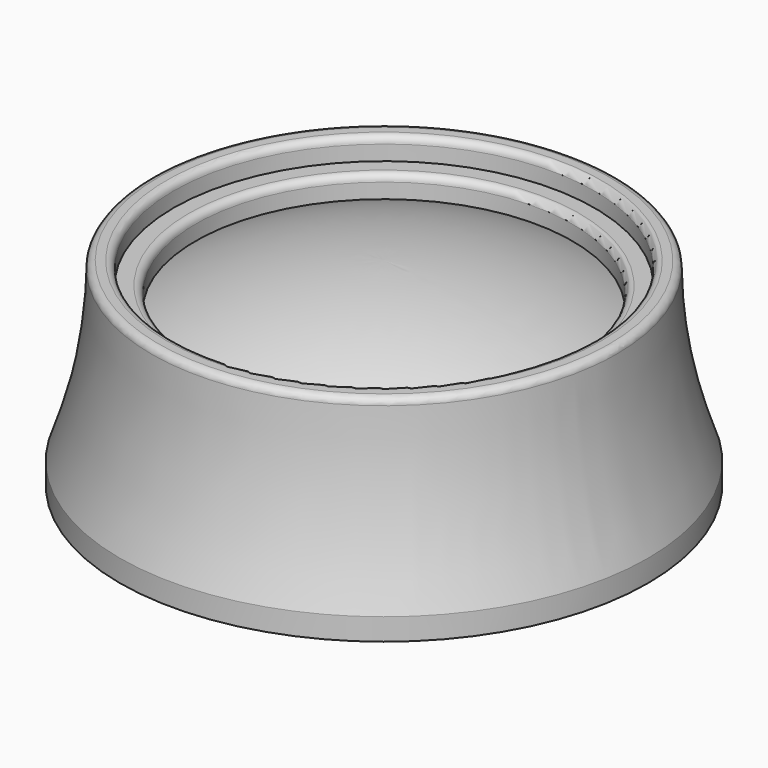
from build123d import *

# Parameters (mm, degrees)
F2_R     = 0.5
F3_R     = 2.8702
F4_DEPTH = 9.525
F5_SIZE  = 1


with BuildPart() as f1:
    # F0 (on Front) → F1 (revolve)
    with BuildSketch(Plane.XZ):
        with BuildLine():
            Line((0, 14.2875), (0, 0))
            Line((0, 0), (7.14375, 0))
            Line((7.14375, 0), (7.14375, 3.175))
            Line((7.14375, 3.175), (8.044528, 6.53675))
            ThreePointArc((8.044528, 6.53675), (10.696922, 8.862837), (13.860973, 7.3025))
            Line((13.860973, 7.3025), (15.737651, 4.051999))
            ThreePointArc((15.737651, 4.051999), (16.10287, 2.799032), (16.51, 1.559049))
            Line((16.51, 1.559049), (16.51, 0))
            Line((16.51, 0), (19.05, 0))
            Line((19.05, 0), (19.05, 1.5875))
            ThreePointArc((19.05, 1.5875), (17.340056, 7.83545), (16.764, 14.2875))
            Line((16.764, 14.2875), (15.1765, 14.2875))
            Line((15.1765, 14.2875), (15.1765, 12.7))
            Line((15.1765, 12.7), (13.589, 12.7))
            Line((13.589, 12.7), (13.589, 11.1125))
            ThreePointArc((13.589, 11.1125), (6.977491, 13.483203), (0, 14.2875))
        make_face()
    revolve(axis=Axis((0, 0, 24.020071), (0, 0, 1)))

    # F2
    f2_edges = [f1.edges().sort_by_distance(p)[0] for p in [
        (-16.764, 0, 14.2875),
        (-15.1765, 0, 14.2875),
        (-13.589, 0, 12.7),
    ]]
    fillet(f2_edges, radius=F2_R)

    # F3 (on face) → F4 (cut)
    with BuildSketch(Plane(origin=(0, 0, 0), x_dir=(1, 0, 0), z_dir=(0, 0, -1))):
        Circle(F3_R)
    extrude(amount=-F4_DEPTH, mode=Mode.SUBTRACT)

    # F5
    f5_edges = [f1.edges().sort_by_distance(p)[0] for p in [
        (-2.8702, 0, 0),
        (-7.14375, 0, 0),
    ]]
    chamfer(f5_edges, length=F5_SIZE)


solid = f1.part
